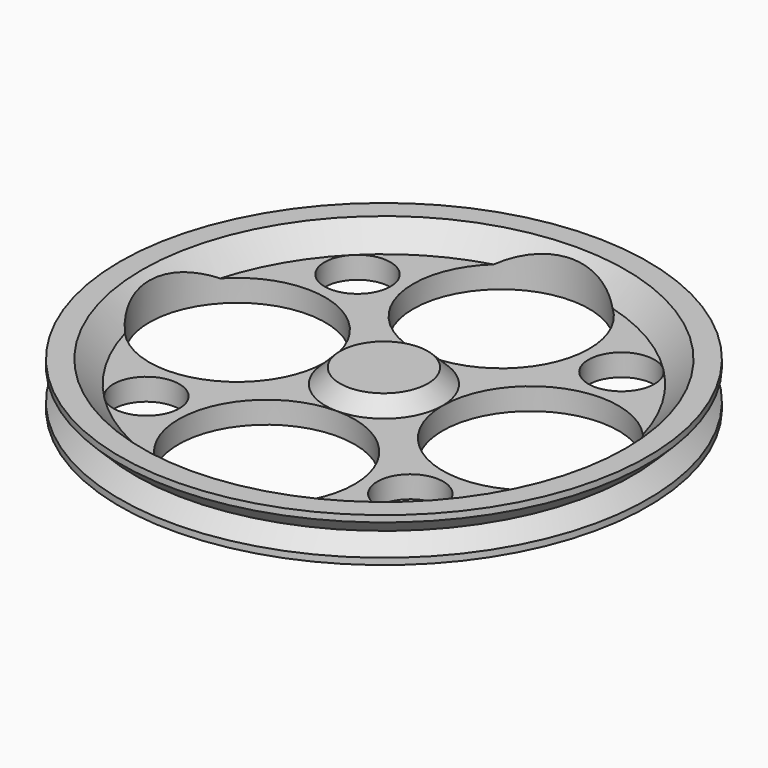
from build123d import *

# Parameters (mm, degrees)
SKETCH001_R           = 12
SKETCH001_R_2         = 4.5
POCKET_DEPTH          = 210.001
POLARPATTERN001_COUNT = 4


with BuildPart() as part:
    # Sketch → Revolution (revolve)
    with BuildSketch(Plane.XZ):
        Polygon((0, 2), (-5.985281, 2), (-8, 0), (-29.955844, 0), (-32.977922, 3), (-36, 3), (-36, 2.12132), (-33.87868, 0), (-36, -2.12132), (-36, -3), (0, -3), align=None)
    revolve(axis=Axis((0, 0, 0), (0, 0, 1)))

    # Sketch001 → Pocket (cut, through all)
    with BuildSketch(Plane(origin=(0, 0, -3), x_dir=(1, 0, 0), z_dir=(0, 0, -1))):
        with Locations((0, 20)):
            Circle(SKETCH001_R)
        with Locations((18, 18)):
            Circle(SKETCH001_R_2)
    pocket = extrude(amount=-POCKET_DEPTH, mode=Mode.SUBTRACT)

    # PolarPattern001: Pocket ×4 about axis
    polarpattern001_axis = Axis((0, 0, -3), (0, 0, -1))
    for i in range(1, POLARPATTERN001_COUNT):
        add(pocket.rotate(polarpattern001_axis, i * 360 / POLARPATTERN001_COUNT), mode=Mode.SUBTRACT)


solid = part.part
